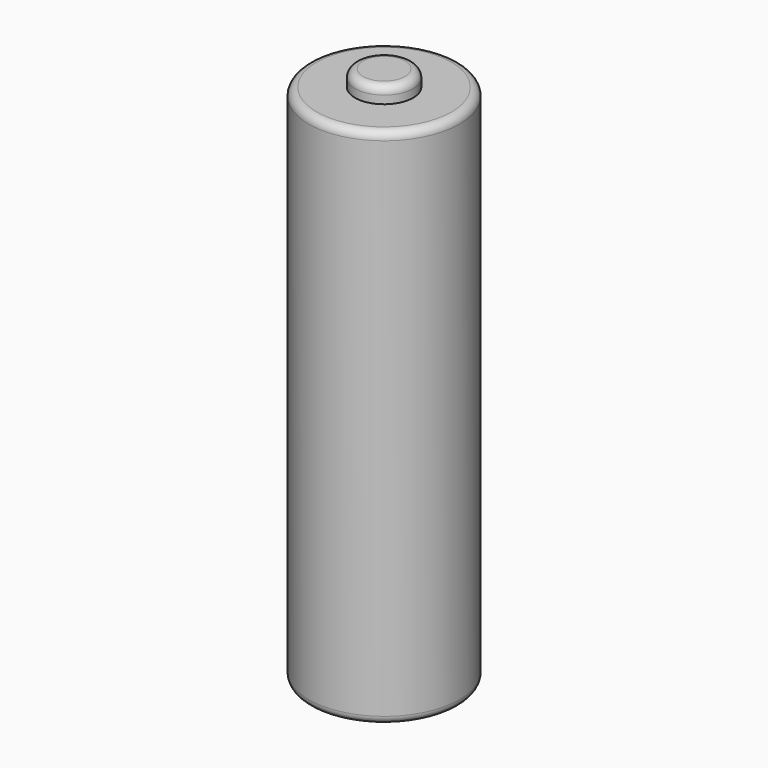
from build123d import *

# Parameters (mm, degrees)
F0_R     = 7
F1_DEPTH = 48.5
F2_R     = 2.7
F3_DEPTH = 1.5
F4_R     = 0.75


with BuildPart() as f1:
    # F0 (on Top) → F1 (new body)
    with BuildSketch(Plane.XY):
        Circle(F0_R)
    extrude(amount=F1_DEPTH)

    # F2 (on face) → F3 (join)
    with BuildSketch(Plane.XY.offset(48.5)):
        Circle(F2_R)
    extrude(amount=F3_DEPTH)

    # F4
    f4_edges = [f1.edges().sort_by_distance(p)[0] for p in [
        (-2.7, 0, 50),
        (-7, 0, 48.5),
        (-7, 0, 0),
    ]]
    fillet(f4_edges, radius=F4_R)


solid = f1.part
